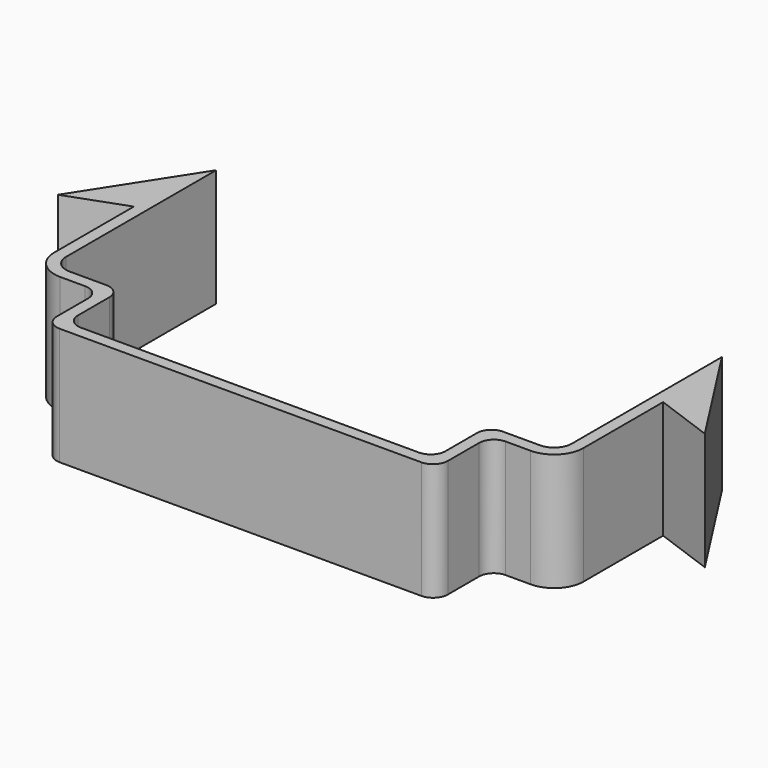
from build123d import *

# Parameters (mm, degrees)
F2_DEPTH = 8
F3_R     = 1


with BuildPart() as f2:
    # F1 (on Top) → F2 (new body)
    with BuildSketch(Plane.XY):
        Polygon((-12.5, -7.730263), (-12.5, -3.865132), (-13.3, -3.865132), (-13.3, -8.530263), (0, -8.530263), (13.3, -8.530263), (13.3, -3.865132), (12.5, -3.865132), (12.5, -7.730263), (0, -7.730263), align=None)
        with BuildLine():
            Line((-13.3, -3.865132), (-12.5, -3.865132))
            Line((-12.5, -3.865132), (-12.5, -3.065132))
            Line((-12.5, -3.065132), (-16, -3.065132))
            ThreePointArc((-16, -3.065132), (-16.848528, -2.71366), (-17.2, -1.865132))
            Line((-17.2, -1.865132), (-17.2, 10.9))
            Line((-17.2, 10.9), (-22, 3.444119))
            Line((-22, 3.444119), (-18, 4.9))
            Line((-18, 4.9), (-18, -1.865132))
            ThreePointArc((-18, -1.865132), (-17.414214, -3.279345), (-16, -3.865132))
            Line((-16, -3.865132), (-13.3, -3.865132))
        make_face()
        with BuildLine():
            Line((12.5, -3.065132), (12.5, -3.865132))
            Line((12.5, -3.865132), (13.3, -3.865132))
            Line((13.3, -3.865132), (16, -3.865132))
            ThreePointArc((16, -3.865132), (17.414214, -3.279345), (18, -1.865132))
            Line((18, -1.865132), (18, 4.9))
            Line((18, 4.9), (22, 3.444119))
            Line((22, 3.444119), (17.2, 10.9))
            Line((17.2, 10.9), (17.2, -1.865132))
            ThreePointArc((17.2, -1.865132), (16.848528, -2.71366), (16, -3.065132))
            Line((16, -3.065132), (12.5, -3.065132))
        make_face()
    extrude(amount=F2_DEPTH)

    # F3
    f3_edges = [f2.edges().sort_by_distance(p)[0] for p in [
        (-13.3, -3.865132, 4),
        (13.3, -3.865132, 4),
        (-12.5, -3.065132, 4),
        (12.5, -3.065132, 4),
        (-13.3, -8.530263, 4),
        (-12.5, -7.730263, 4),
        (13.3, -8.530263, 4),
        (12.5, -7.730263, 4),
    ]]
    fillet(f3_edges, radius=F3_R)


solid = f2.part
